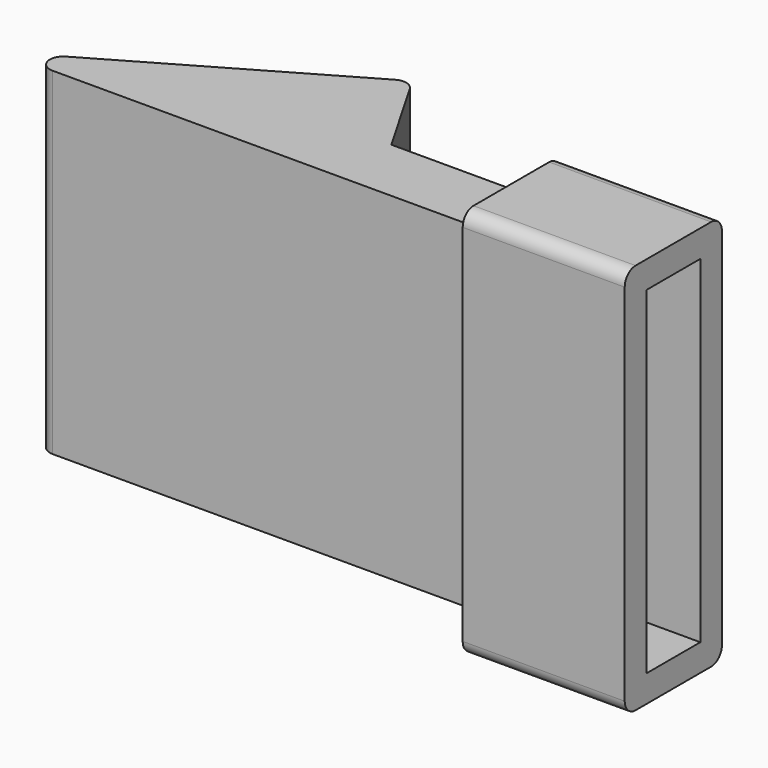
from build123d import *

# Parameters (mm, degrees)
F1_DEPTH      = 12.5
F3_W          = 2.5
F3_H          = 12.5
F4_DEPTH      = 9.464
F5_W          = 4.5
F5_H          = 14.5
F5_W_2        = 2.5
F5_H_2        = 12.5
F6_DEPTH      = 4
F6_DEPTH_BACK = 2
F7_R          = 0.5
F8_R          = 0.5


with BuildPart() as f1:
    # F0 (on Top) → F1 (new body)
    with BuildSketch(Plane.XY):
        Polygon((-13.8564064606, 0), (0, 0), (-3.4641016151, 6), align=None)
    extrude(amount=F1_DEPTH)

    # F3 (on offset) → F4 (join)
    with BuildSketch(Plane.YZ.offset(-3.4643)):
        with Locations((1.25, 6.25)):
            Rectangle(F3_W, F3_H)
    extrude(amount=F4_DEPTH)

    # F5 (on face) → F6 (join, two sides)
    with BuildSketch(Plane.YZ.offset(5.9997)) as f6_sk:
        with Locations((1.25, 6.25)):
            Rectangle(F5_W, F5_H)
        with Locations((1.25, 6.25)):
            Rectangle(F5_W_2, F5_H_2, mode=Mode.SUBTRACT)
    extrude(amount=F6_DEPTH)
    extrude(f6_sk.sketch, amount=-F6_DEPTH_BACK)

    # F7
    f7_edges = [f1.edges().sort_by_distance(p)[0] for p in [
        (-13.856406, 0, 6.25),
        (-3.464102, 6, 6.25),
    ]]
    fillet(f7_edges, radius=F7_R)

    # F8
    f8_edges = [f1.edges().sort_by_distance(p)[0] for p in [
        (3.9997, 1.25, 0),
        (3.9997, 0, 6.25),
        (3.9997, 2.5, 6.25),
        (3.9997, 1.25, 12.5),
        (6.9997, -1, 13.5),
        (6.9997, 3.5, 13.5),
        (6.9997, 3.5, -1),
        (6.9997, -1, -1),
    ]]
    fillet(f8_edges, radius=F8_R)


solid = f1.part
